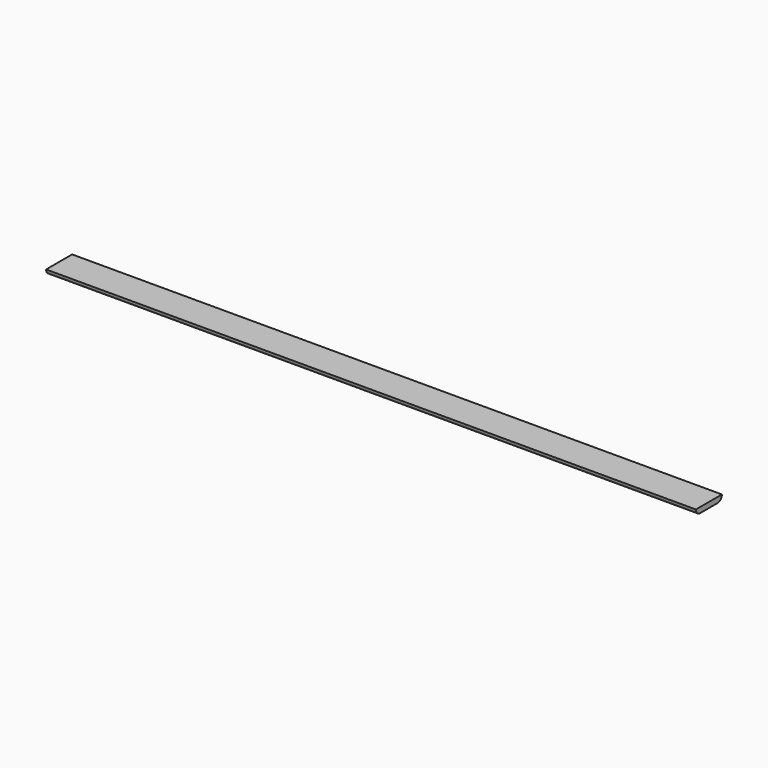
from build123d import *

# Parameters (mm, degrees)
F1_DEPTH = 762


with BuildPart() as f1:
    # F0 (on Right) → F1 (new body)
    with BuildSketch(Plane.YZ):
        with BuildLine():
            Line((-8.499123, -3.816325), (-19.084483, -3.816325))
            ThreePointArc((-19.084483, -3.816325), (-17.224611, -8.306453), (-12.734483, -10.166325))
            Line((-12.734483, -10.166325), (12.734483, -10.166325))
            ThreePointArc((12.734483, -10.166325), (17.224611, -8.306453), (19.084483, -3.816325))
            Line((19.084483, -3.816325), (8.499123, -3.816325))
            Line((8.499123, -3.816325), (0, -3.816325))
            Line((0, -3.816325), (-8.499123, -3.816325))
        make_face()
    extrude(amount=F1_DEPTH)


solid = f1.part
